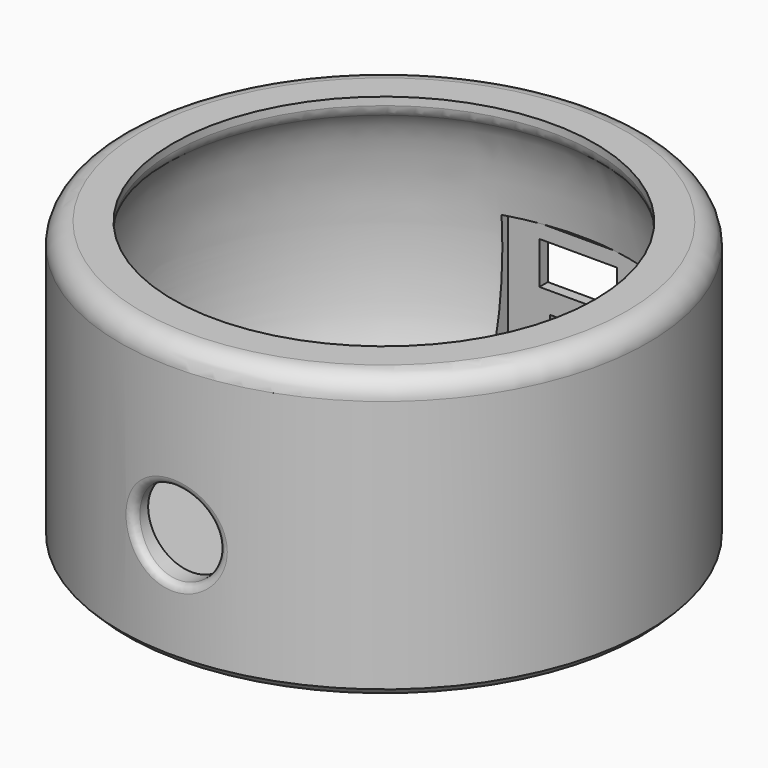
from build123d import *

# Parameters (mm, degrees)
F2_R      = 3
F3_SIZE   = 1
F4_R      = 2
F0_R      = 6
F0_R_2    = 5.5
F5_DEPTH  = 43.8
F6_R      = 1
F8_W      = 20
F8_H      = 18
F8_W_2    = 8
F8_H_2    = 3
F8_W_3    = 11
F8_H_3    = 6
F9_DEPTH  = 11
F11_W     = 20
F11_H     = 18
F12_DEPTH = 1.5
F13_DEPTH = 10


with BuildPart() as f1:
    # F0 (on Front) → F1 (revolve)
    with BuildSketch(Plane.XZ):
        with BuildLine():
            Line((0, -17.5), (-30, -17.5))
            add(Edge.make_bspline(
                [(-30, 17.5), (-35, 17.5), (-35, 0), (-35, -17.5), (-30, -17.5)],
                knots=[3.1415926536, 3.1415926536, 3.1415926536, 4.7123889804, 4.7123889804, 6.2831853072, 6.2831853072, 6.2831853072], degree=2, weights=[1, 0.7071067812, 1, 0.7071067812, 1]))
            Line((-30, 17.5), (-30, 20))
            Line((-30, 20), (-37.5, 20))
            Line((-37.5, 20), (-37.5, -20))
            Line((-37.5, -20), (0, -20))
            Line((0, -20), (0, -17.5))
        make_face()
    revolve(axis=Axis((0, 0, 10), (0, 0, 1)))

    # F2
    f2_edges = [f1.edges().sort_by_distance(p)[0] for p in [
        (37.5, 0, 20),
    ]]
    fillet(f2_edges, radius=F2_R)

    # F3
    f3_edges = [f1.edges().sort_by_distance(p)[0] for p in [
        (37.5, 0, -20),
    ]]
    chamfer(f3_edges, length=F3_SIZE)

    # F4
    f4_edges = [f1.edges().sort_by_distance(p)[0] for p in [
        (30, 0, 17.5),
    ]]
    fillet(f4_edges, radius=F4_R)

    # F0 (on Front) → F5 (cut)
    with BuildSketch(Plane.XZ):
        with Locations((0, -4)):
            Circle(F0_R)
        with Locations((0, -4)):
            Circle(F0_R_2, mode=Mode.SUBTRACT)
        with Locations((0, -4)):
            Circle(F0_R_2)
    extrude(amount=F5_DEPTH, mode=Mode.SUBTRACT)

    # F6
    f6_edges = [f1.edges().sort_by_distance(p)[0] for p in [
        (-6, -37.016888, -4),
    ]]
    fillet(f6_edges, radius=F6_R)

    # F8 (on offset) → F9 (cut)
    with BuildSketch(Plane.XZ.offset(-37.5)):
        with Locations((0, -5)):
            Rectangle(F8_W, F8_H)
        with Locations((0, -8.5)):
            Rectangle(F8_W_2, F8_H_2, mode=Mode.SUBTRACT)
        with Locations((0, -1)):
            Rectangle(F8_W_3, F8_H_3, mode=Mode.SUBTRACT)
    extrude(amount=F9_DEPTH, mode=Mode.SUBTRACT)

    # F11 (on offset) → F12 (join)
    with BuildSketch(Plane.XZ.offset(-36)):
        with Locations((-0.2326329207, -5)):
            Rectangle(F11_W, F11_H)
    extrude(amount=F12_DEPTH)

    # F8 (on offset) → F13 (cut)
    with BuildSketch(Plane.XZ.offset(-37.5)):
        with Locations((0, -1)):
            Rectangle(F8_W_3, F8_H_3)
        with Locations((0, -8.5)):
            Rectangle(F8_W_2, F8_H_2)
    extrude(amount=F13_DEPTH, mode=Mode.SUBTRACT)


solid = f1.part
